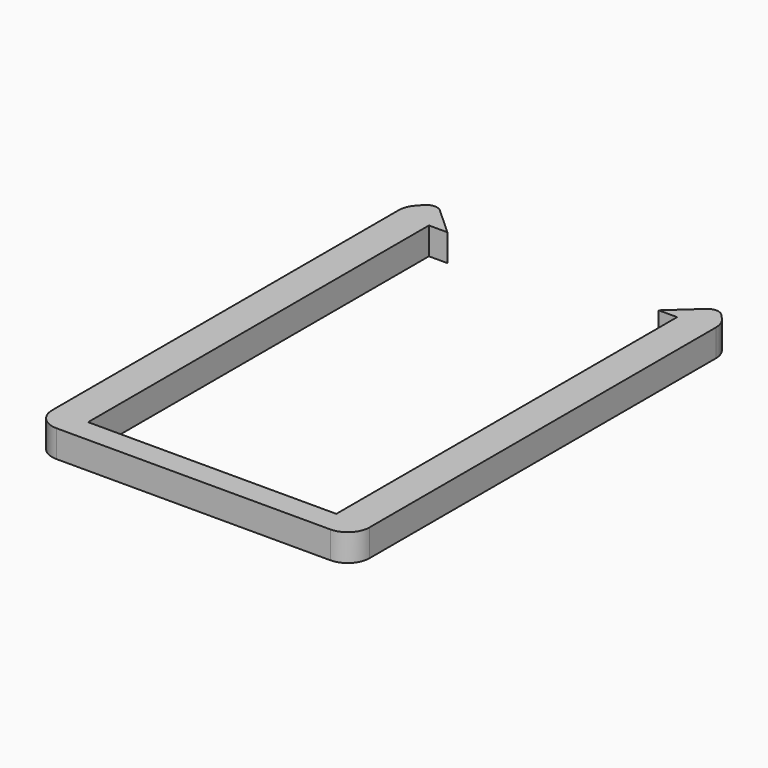
from build123d import *

# Parameters (mm, degrees)
F1_DEPTH = 1.25
F2_R     = 1
F3_R     = 1
F4_R     = 0.5


with BuildPart() as f1:
    # F0 (on Top) → F1 (new body)
    with BuildSketch(Plane.XY):
        Polygon((-7.965586, 11.031977), (-7.965586, -9.196173), (-6.375586, -9.196173), (-6.375586, 10.403827), (-6.375586, 11.178903), (-7.170586, 11.903827), align=None)
        Polygon((-6.375586, 11.178903), (-6.375586, 10.403827), (-5.525586, 10.403827), align=None)
        Polygon((4.194414, 10.403827), (5.044414, 10.403827), (5.044414, 11.178903), align=None)
        Polygon((5.044414, 10.403827), (5.044414, -9.196173), (6.634414, -9.196173), (6.634414, 11.031977), (5.839414, 11.903827), (5.044414, 11.178903), align=None)
        Polygon((-6.375586, -9.196173), (-7.965586, -9.196173), (-7.965586, -10.276173), (6.634414, -10.276173), (6.634414, -9.196173), (5.044414, -9.196173), align=None)
    extrude(amount=F1_DEPTH)

    # F2
    f2_edges = [f1.edges().sort_by_distance(p)[0] for p in [
        (6.634414, -10.276173, 0.625),
        (-7.965586, -10.276173, 0.625),
    ]]
    fillet(f2_edges, radius=F2_R)

    # F3
    f3_edges = [f1.edges().sort_by_distance(p)[0] for p in [
        (-7.965586, 11.031977, 0.625),
        (6.634414, 11.031977, 0.625),
    ]]
    fillet(f3_edges, radius=F3_R)

    # F4
    f4_edges = [f1.edges().sort_by_distance(p)[0] for p in [
        (5.839414, 11.903827, 0.625),
        (-7.170586, 11.903827, 0.625),
    ]]
    fillet(f4_edges, radius=F4_R)


solid = f1.part
